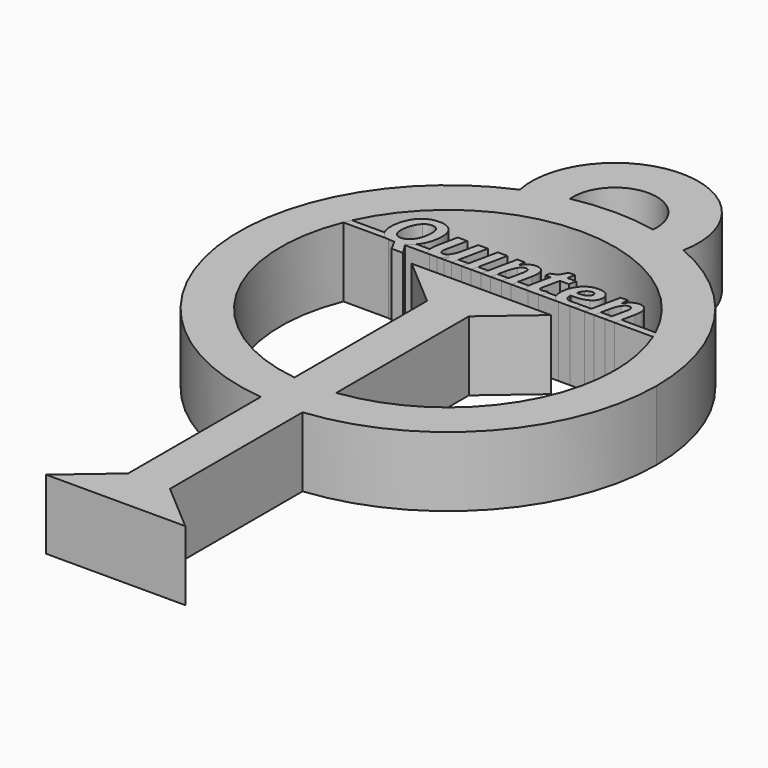
from build123d import *

# Parameters (mm, degrees)
F1_DEPTH = 5
F2_DEPTH = 5


with BuildPart() as f1:
    # F0 (on Top) → F1 (new body)
    with BuildSketch(Plane.XY):
        with BuildLine():
            ThreePointArc((1.5, -14.9248115566), (11.1242977306, -10.0623058987), (15, 0))
            ThreePointArc((15, 0), (12.513625189, 8.2709845019), (5.8787753827, 13.8))
            ThreePointArc((5.8787753827, 13.8), (4.454656157, 14.3232691283), (2.9849623113, 14.7))
            ThreePointArc((2.9849623113, 14.7), (0, 15), (-2.9849623113, 14.7))
            ThreePointArc((-2.9849623113, 14.7), (-4.454656157, 14.3232691283), (-5.8787753827, 13.8))
            ThreePointArc((-5.8787753827, 13.8), (-14.8286978956, -2.2604686953), (-1.5, -14.9248115566))
            ThreePointArc((-1.5, -14.9248115566), (0, -15), (1.5, -14.9248115566))
        make_face()
        with BuildLine():
            ThreePointArc((1.5, -11.9058808998), (0, -12), (-1.5, -11.9058808998))
            ThreePointArc((-1.5, -11.9058808998), (-10.354222342, -6.065482643), (-11.1186688317, 4.5138900531))
            Line((-11.1186688317, 4.5138900531), (-11.3634495065, 4.5138900531))
            Line((-11.3634495065, 4.5138900531), (-11.3634495065, 5.0138900531))
            Line((-11.3634495065, 5.0138900531), (-10.9023349121, 5.0138900531))
            ThreePointArc((-10.9023349121, 5.0138900531), (0, 12), (10.9023349121, 5.0138900531))
            Line((10.9023349121, 5.0138900531), (11.4118158817, 5.0138900531))
            Line((11.4118158817, 5.0138900531), (11.4118158817, 4.5138900531))
            Line((11.4118158817, 4.5138900531), (11.1186688317, 4.5138900531))
            ThreePointArc((11.1186688317, 4.5138900531), (11.7776064202, 2.2995623518), (12, 0))
            ThreePointArc((12, 0), (9, -7.9372539332), (1.5, -11.9058808998))
        make_face(mode=Mode.SUBTRACT)
        with BuildLine():
            ThreePointArc((2.9849623113, 14.7), (4.454656157, 14.3232691283), (5.8787753827, 13.8))
            ThreePointArc((5.8787753827, 13.8), (0, 21), (-5.8787753827, 13.8))
            ThreePointArc((-5.8787753827, 13.8), (-4.454656157, 14.3232691283), (-2.9849623113, 14.7))
            ThreePointArc((-2.9849623113, 14.7), (0, 18), (2.9849623113, 14.7))
        make_face()
        with BuildLine():
            Line((1.5, -26.83281573), (1.5, -14.9248115566))
            ThreePointArc((1.5, -14.9248115566), (0, -15), (-1.5, -14.9248115566))
            Line((-1.5, -14.9248115566), (-1.5, -26.83281573))
            Line((-1.5, -26.83281573), (1.5, -26.83281573))
        make_face()
        Polygon((5, -29.83281573), (1.5, -26.83281573), (-1.5, -26.83281573), (-5, -29.83281573), align=None)
        with BuildLine():
            Line((-1.5, 0), (-1.5, -11.9058808998))
            ThreePointArc((-1.5, -11.9058808998), (0, -12), (1.5, -11.9058808998))
            Line((1.5, -11.9058808998), (1.5, 0))
            Line((1.5, 0), (5, 3))
            Line((5, 3), (0, 3))
            Line((0, 3), (-5, 3))
            Line((-5, 3), (-1.5, 0))
        make_face()
        with BuildLine():
            ThreePointArc((10.9023349121, 5.0138900531), (11.0133397056, 4.7651178925), (11.1186688317, 4.5138900531))
            Line((11.1186688317, 4.5138900531), (11.4118158817, 4.5138900531))
            Line((11.4118158817, 4.5138900531), (11.4118158817, 5.0138900531))
            Line((11.4118158817, 5.0138900531), (10.9023349121, 5.0138900531))
        make_face()
        with BuildLine():
            Line((-11.3634495065, 4.5138900531), (-11.1186688317, 4.5138900531))
            ThreePointArc((-11.1186688317, 4.5138900531), (-11.0133397056, 4.7651178925), (-10.9023349121, 5.0138900531))
            Line((-10.9023349121, 5.0138900531), (-11.3634495065, 5.0138900531))
            Line((-11.3634495065, 5.0138900531), (-11.3634495065, 4.5138900531))
        make_face()
    extrude(amount=F1_DEPTH)


with BuildPart() as f1b:
    # F0 (on Top) → F1, piece 2 (new body)
    with BuildSketch(Plane.XY):
        with BuildLine():
            add(Edge.make_bspline(
                [(-8.562856479, 5.0138900531), (-8.7372178819, 5.3133548176), (-8.7372178819, 5.751997692)],
                knots=[0.2741268531, 0.2741268531, 0.2741268531, 1, 1, 1], degree=2))
            Line((-8.562856479, 5.0138900531), (-6.2538529569, 5.0138900531))
            add(Edge.make_bspline(
                [(-6.0012803819, 5.3959864073), (-6.1118183796, 5.1799611038), (-6.2538529569, 5.0138900531)],
                knots=[0, 0, 0, 0.3911527362, 0.3911527362, 0.3911527362], degree=2))
            add(Edge.make_bspline(
                [(-5.7186848958, 6.6765202614), (-5.7186848958, 5.9482650531), (-6.0012803819, 5.3959864073)],
                knots=[0, 0, 0, 1, 1, 1], degree=2))
            add(Edge.make_bspline(
                [(-6.0414930556, 7.6062077614), (-5.7186848958, 7.2741765114), (-5.7186848958, 6.6765202614)],
                knots=[0, 0, 0, 1, 1, 1], degree=2))
            add(Edge.make_bspline(
                [(-6.9523654514, 7.9382390114), (-6.3643012153, 7.9382390114), (-6.0414930556, 7.6062077614)],
                knots=[0, 0, 0, 1, 1, 1], degree=2))
            add(Edge.make_bspline(
                [(-7.8791015625, 7.6637598448), (-7.4777126736, 7.9382390114), (-6.9523654514, 7.9382390114)],
                knots=[0, 0, 0, 1, 1, 1], degree=2))
            add(Edge.make_bspline(
                [(-8.5088541667, 6.876107935), (-8.2804904514, 7.3892806781), (-7.8791015625, 7.6637598448)],
                knots=[0, 0, 0, 1, 1, 1], degree=2))
            add(Edge.make_bspline(
                [(-8.7372178819, 5.751997692), (-8.7372178819, 6.362935192), (-8.5088541667, 6.876107935)],
                knots=[0, 0, 0, 1, 1, 1], degree=2))
        make_face()
        with BuildLine():
            add(Edge.make_bspline(
                [(-7.0099175347, 7.3427963031), (-7.2888237847, 7.3427963031), (-7.5216145833, 7.1321409212)],
                knots=[0, 0, 0, 1, 1, 1], degree=2))
            add(Edge.make_bspline(
                [(-6.5878689236, 7.1642372753), (-6.7376519097, 7.3427963031), (-7.0099175347, 7.3427963031)],
                knots=[0, 0, 0, 1, 1, 1], degree=2))
            add(Edge.make_bspline(
                [(-6.4380859375, 6.6580740809), (-6.4380859375, 6.9856782475), (-6.5878689236, 7.1642372753)],
                knots=[0, 0, 0, 1, 1, 1], degree=2))
            add(Edge.make_bspline(
                [(-6.5672092014, 5.8353744281), (-6.4380859375, 6.2020844975), (-6.4380859375, 6.6580740809)],
                knots=[0, 0, 0, 1, 1, 1], degree=2))
            add(Edge.make_bspline(
                [(-6.9258029514, 5.2679699142), (-6.6963324653, 5.4686643587), (-6.5672092014, 5.8353744281)],
                knots=[0, 0, 0, 1, 1, 1], degree=2))
            add(Edge.make_bspline(
                [(-7.4341796875, 5.0672754698), (-7.1552734375, 5.0672754698), (-6.9258029514, 5.2679699142)],
                knots=[0, 0, 0, 1, 1, 1], degree=2))
            add(Edge.make_bspline(
                [(-7.8665581597, 5.2403006434), (-7.7130859375, 5.0672754698), (-7.4341796875, 5.0672754698)],
                knots=[0, 0, 0, 1, 1, 1], degree=2))
            add(Edge.make_bspline(
                [(-8.0200303819, 5.751997692), (-8.0200303819, 5.413325817), (-7.8665581597, 5.2403006434)],
                knots=[0, 0, 0, 1, 1, 1], degree=2))
            add(Edge.make_bspline(
                [(-7.8872178819, 6.5525619281), (-8.0200303819, 6.183638317), (-8.0200303819, 5.751997692)],
                knots=[0, 0, 0, 1, 1, 1], degree=2))
            add(Edge.make_bspline(
                [(-7.5216145833, 7.1321409212), (-7.7544053819, 6.9214855392), (-7.8872178819, 6.5525619281)],
                knots=[0, 0, 0, 1, 1, 1], degree=2))
        make_face(mode=Mode.SUBTRACT)
        with BuildLine():
            add(Edge.make_bspline(
                [(-7.8860696745, 4.5138900531), (-8.1977033545, 4.5931496528), (-8.4062934028, 4.8075532475)],
                knots=[0.3696747706, 0.3696747706, 0.3696747706, 1, 1, 1], degree=2))
            Line((-7.8860696745, 4.5138900531), (-6.7051175901, 4.5138900531))
            Line((-6.7051175901, 4.5138900531), (-6.7723307292, 4.6179265114))
            add(Edge.make_bspline(
                [(-6.2538529569, 5.0138900531), (-6.4749363235, 4.7553928077), (-6.7723307292, 4.6179265114)],
                knots=[0.3911527362, 0.3911527362, 0.3911527362, 1, 1, 1], degree=2))
            Line((-6.2538529569, 5.0138900531), (-8.562856479, 5.0138900531))
            add(Edge.make_bspline(
                [(-8.4062934028, 4.8075532475), (-8.4970086889, 4.9007968303), (-8.562856479, 5.0138900531)],
                knots=[0, 0, 0, 0.2741268531, 0.2741268531, 0.2741268531], degree=2))
        make_face()
        with BuildLine():
            Line((-6.7051175901, 4.5138900531), (-7.8860696745, 4.5138900531))
            add(Edge.make_bspline(
                [(-7.4850911458, 4.4674056781), (-7.7033019479, 4.4674056781), (-7.8860696745, 4.5138900531)],
                knots=[0, 0, 0, 0.3696747706, 0.3696747706, 0.3696747706], degree=2))
            Line((-7.4850911458, 4.4674056781), (-7.4245876736, 4.4674056781))
            Line((-7.4245876736, 4.4674056781), (-7.0143446181, 3.7111122753))
            Line((-7.0143446181, 3.7111122753), (-6.1864800347, 3.7111122753))
            Line((-6.1864800347, 3.7111122753), (-6.7051175901, 4.5138900531))
        make_face()
    extrude(amount=F1_DEPTH)


with BuildPart() as f1c:
    # F0 (on Top) → F1, piece 3 (new body)
    with BuildSketch(Plane.XY):
        with BuildLine():
            add(Edge.make_bspline(
                [(-5.3031877435, 5.0138900531), (-5.3172960069, 5.1039311611), (-5.3172960069, 5.2082042892)],
                knots=[0.7104082845, 0.7104082845, 0.7104082845, 1, 1, 1], degree=2))
            Line((-5.3031877435, 5.0138900531), (-3.2420859494, 5.0138900531))
            Line((-3.2420859494, 5.0138900531), (-2.8019748264, 7.0919282475))
            Line((-2.8019748264, 7.0919282475), (-3.4955512153, 7.0919282475))
            Line((-3.4955512153, 7.0919282475), (-3.7220703125, 6.024263317))
            add(Edge.make_bspline(
                [(-3.9939670139, 5.2908431781), (-3.8209418403, 5.5535167892), (-3.7220703125, 6.024263317)],
                knots=[0, 0, 0, 1, 1, 1], degree=2))
            add(Edge.make_bspline(
                [(-4.3787543403, 5.028169567), (-4.1669921875, 5.028169567), (-3.9939670139, 5.2908431781)],
                knots=[0, 0, 0, 1, 1, 1], degree=2))
            add(Edge.make_bspline(
                [(-4.6281467014, 5.3115029003), (-4.6281467014, 5.028169567), (-4.3787543403, 5.028169567)],
                knots=[0, 0, 0, 1, 1, 1], degree=2))
            add(Edge.make_bspline(
                [(-4.5912543403, 5.585982067), (-4.6281467014, 5.4295584559), (-4.6281467014, 5.3115029003)],
                knots=[0, 0, 0, 1, 1, 1], degree=2))
            Line((-4.5912543403, 5.585982067), (-4.2754557292, 7.0919282475))
            Line((-4.2754557292, 7.0919282475), (-4.9690321181, 7.0919282475))
            Line((-4.9690321181, 7.0919282475), (-5.2619574653, 5.698872692))
            add(Edge.make_bspline(
                [(-5.3172960069, 5.2082042892), (-5.3172960069, 5.4221799837), (-5.2619574653, 5.698872692)],
                knots=[0, 0, 0, 1, 1, 1], degree=2))
        make_face()
        with BuildLine():
            add(Edge.make_bspline(
                [(-4.9405431901, 4.5138900531), (-5.0639684268, 4.5614746883), (-5.1490668403, 4.6577702614)],
                knots=[0.4941518456, 0.4941518456, 0.4941518456, 1, 1, 1], degree=2))
            Line((-4.9405431901, 4.5138900531), (-4.3873777888, 4.5138900531))
            add(Edge.make_bspline(
                [(-3.8438151042, 4.9912772059), (-4.0784951134, 4.6234564408), (-4.3873777888, 4.5138900531)],
                knots=[0, 0, 0, 0.7021201679, 0.7021201679, 0.7021201679], degree=2))
            Line((-3.8438151042, 4.9912772059), (-3.8297960069, 4.9912772059))
            Line((-3.8297960069, 4.9912772059), (-3.8784939236, 4.5138900531))
            Line((-3.8784939236, 4.5138900531), (-3.3479817708, 4.5138900531))
            Line((-3.3479817708, 4.5138900531), (-3.2420859494, 5.0138900531))
            Line((-3.2420859494, 5.0138900531), (-5.3031877435, 5.0138900531))
            add(Edge.make_bspline(
                [(-5.1490668403, 4.6577702614), (-5.268578234, 4.7930068385), (-5.3031877435, 5.0138900531)],
                knots=[0, 0, 0, 0.7104082845, 0.7104082845, 0.7104082845], degree=2))
        make_face()
    extrude(amount=F1_DEPTH)


with BuildPart() as f1d:
    # F0 (on Top) → F1, piece 4 (new body)
    with BuildSketch(Plane.XY):
        Polygon((-2.0892144097, 7.0919282475), (-2.5293255328, 5.0138900531), (-1.8356060414, 5.0138900531), (-1.3949001736, 7.0919282475), align=None)
        Polygon((-1.8356060414, 5.0138900531), (-2.5293255328, 5.0138900531), (-2.6352213542, 4.5138900531), (-1.9416449653, 4.5138900531), align=None)
    extrude(amount=F1_DEPTH)


with BuildPart() as f1e:
    # F0 (on Top) → F1, piece 5 (new body)
    with BuildSketch(Plane.XY):
        with BuildLine():
            Line((-0.6873046875, 7.0919282475), (-1.1274158105, 5.0138900531))
            Line((-1.1274158105, 5.0138900531), (-0.433653695, 5.0138900531))
            Line((-0.433653695, 5.0138900531), (-0.3132161458, 5.5815549837))
            add(Edge.make_bspline(
                [(-0.0413194444, 6.3146061989), (-0.2143446181, 6.0515636642), (-0.3132161458, 5.5815549837)],
                knots=[0, 0, 0, 1, 1, 1], degree=2))
            add(Edge.make_bspline(
                [(0.3434678819, 6.5776487337), (0.1317057292, 6.5776487337), (-0.0413194444, 6.3146061989)],
                knots=[0, 0, 0, 1, 1, 1], degree=2))
            add(Edge.make_bspline(
                [(0.5928602431, 6.2943154003), (0.5928602431, 6.5776487337), (0.3434678819, 6.5776487337)],
                knots=[0, 0, 0, 1, 1, 1], degree=2))
            add(Edge.make_bspline(
                [(0.5559678819, 6.0198362337), (0.5928602431, 6.1762598448), (0.5928602431, 6.2943154003)],
                knots=[0, 0, 0, 1, 1, 1], degree=2))
            Line((0.5559678819, 6.0198362337), (0.3450198343, 5.0138900531))
            Line((0.3450198343, 5.0138900531), (1.0382157752, 5.0138900531))
            Line((1.0382157752, 5.0138900531), (1.2406901042, 5.9829438725))
            add(Edge.make_bspline(
                [(1.2938151042, 6.3976140114), (1.2938151042, 6.2293848448), (1.2406901042, 5.9829438725)],
                knots=[0, 0, 0, 1, 1, 1], degree=2))
            add(Edge.make_bspline(
                [(1.1196831597, 6.9476791156), (1.2938151042, 6.7554699142), (1.2938151042, 6.3976140114)],
                knots=[0, 0, 0, 1, 1, 1], degree=2))
            add(Edge.make_bspline(
                [(0.6275390625, 7.139888317), (0.9455512153, 7.139888317), (1.1196831597, 6.9476791156)],
                knots=[0, 0, 0, 1, 1, 1], degree=2))
            add(Edge.make_bspline(
                [(-0.1914713542, 6.6145410948), (0.1449869792, 7.139888317), (0.6275390625, 7.139888317)],
                knots=[0, 0, 0, 1, 1, 1], degree=2))
            Line((-0.1914713542, 6.6145410948), (-0.2054904514, 6.6145410948))
            Line((-0.2054904514, 6.6145410948), (-0.1567925347, 7.0919282475))
            Line((-0.1567925347, 7.0919282475), (-0.6873046875, 7.0919282475))
        make_face()
        Polygon((-0.433653695, 5.0138900531), (-1.1274158105, 5.0138900531), (-1.2333116319, 4.5138900531), (-0.5397352431, 4.5138900531), align=None)
        Polygon((1.0382157752, 5.0138900531), (0.3450198343, 5.0138900531), (0.2401692708, 4.5138900531), (0.9337456597, 4.5138900531), align=None)
    extrude(amount=F1_DEPTH)


with BuildPart() as f1f:
    # F0 (on Top) → F1, piece 6 (new body)
    with BuildSketch(Plane.XY):
        with BuildLine():
            Line((1.8091910575, 5.0138900531), (3.0926866319, 5.0138900531))
            Line((3.0926866319, 5.0138900531), (3.0926866319, 5.1085949142))
            add(Edge.make_bspline(
                [(2.7185980903, 5.028169567), (2.8683810764, 5.028169567), (3.0926866319, 5.1085949142)],
                knots=[0, 0, 0, 1, 1, 1], degree=2))
            add(Edge.make_bspline(
                [(2.5156901042, 5.1986122753), (2.5156901042, 5.028169567), (2.7185980903, 5.028169567)],
                knots=[0, 0, 0, 1, 1, 1], degree=2))
            add(Edge.make_bspline(
                [(2.5297092014, 5.3210949142), (2.5156901042, 5.2517372753), (2.5156901042, 5.1986122753)],
                knots=[0, 0, 0, 1, 1, 1], degree=2))
            Line((2.5297092014, 5.3210949142), (2.7945963542, 6.5636296364))
            Line((2.7945963542, 6.5636296364), (3.4453776042, 6.5636296364))
            Line((3.4453776042, 6.5636296364), (3.5604817708, 7.0919282475))
            Line((3.5604817708, 7.0919282475), (2.9082248264, 7.0919282475))
            Line((2.9082248264, 7.0919282475), (3.0211154514, 7.6408865809))
            Line((3.0211154514, 7.6408865809), (2.5732421875, 7.6408865809))
            Line((2.5732421875, 7.6408865809), (2.2692491319, 7.0963553309))
            Line((2.2692491319, 7.0963553309), (1.8169487847, 6.9030393587))
            Line((1.8169487847, 6.9030393587), (1.7505425347, 6.5636296364))
            Line((1.7505425347, 6.5636296364), (2.1010199653, 6.5636296364))
            Line((2.1010199653, 6.5636296364), (1.8353949653, 5.3210949142))
            add(Edge.make_bspline(
                [(1.8080946181, 5.0628483864), (1.8080946181, 5.1779525531), (1.8353949653, 5.3210949142)],
                knots=[0, 0, 0, 1, 1, 1], degree=2))
            add(Edge.make_bspline(
                [(1.8091910575, 5.0138900531), (1.8080946181, 5.0378321882), (1.8080946181, 5.0628483864)],
                knots=[0.9179072486, 0.9179072486, 0.9179072486, 1, 1, 1], degree=2))
        make_face()
        with BuildLine():
            Line((2.1466456321, 4.5138900531), (2.8810686367, 4.5138900531))
            add(Edge.make_bspline(
                [(3.0926866319, 4.589888317), (2.9943828646, 4.5428611545), (2.8810686367, 4.5138900531)],
                knots=[0, 0, 0, 0.3839496187, 0.3839496187, 0.3839496187], degree=2))
            Line((3.0926866319, 4.589888317), (3.0926866319, 5.0138900531))
            Line((3.0926866319, 5.0138900531), (1.8091910575, 5.0138900531))
            add(Edge.make_bspline(
                [(1.9707899306, 4.6127615809), (1.8214507239, 4.7461848177), (1.8091910575, 5.0138900531)],
                knots=[0, 0, 0, 0.9179072486, 0.9179072486, 0.9179072486], degree=2))
            add(Edge.make_bspline(
                [(2.1466456321, 4.5138900531), (2.0414800794, 4.5496053028), (1.9707899306, 4.6127615809)],
                knots=[0.5655059277, 0.5655059277, 0.5655059277, 1, 1, 1], degree=2))
        make_face()
    extrude(amount=F1_DEPTH)


with BuildPart() as f1g:
    # F0 (on Top) → F1, piece 7 (new body)
    with BuildSketch(Plane.XY):
        with BuildLine():
            Line((3.7556581208, 5.0138900531), (4.6632703475, 5.0138900531))
            add(Edge.make_bspline(
                [(4.4953342014, 5.1122841503), (4.5627747248, 5.0435869712), (4.6632703475, 5.0138900531)],
                knots=[0, 0, 0, 0.5677126998, 0.5677126998, 0.5677126998], degree=2))
            add(Edge.make_bspline(
                [(4.3765407986, 5.4428397059), (4.3765407986, 5.2332910948), (4.4953342014, 5.1122841503)],
                knots=[0, 0, 0, 1, 1, 1], degree=2))
            Line((4.3765407986, 5.4428397059), (4.3765407986, 5.4893240809))
            Line((4.3765407986, 5.4893240809), (4.3809678819, 5.5380219975))
            Line((4.3809678819, 5.5380219975), (4.4990234375, 5.5380219975))
            add(Edge.make_bspline(
                [(5.5987847222, 5.771919567), (5.2139973958, 5.5380219975), (4.4990234375, 5.5380219975)],
                knots=[0, 0, 0, 1, 1, 1], degree=2))
            add(Edge.make_bspline(
                [(5.9835720486, 6.4367199142), (5.9835720486, 6.0058171364), (5.5987847222, 5.771919567)],
                knots=[0, 0, 0, 1, 1, 1], degree=2))
            add(Edge.make_bspline(
                [(5.7555772569, 6.9521061989), (5.9835720486, 6.7643240809), (5.9835720486, 6.4367199142)],
                knots=[0, 0, 0, 1, 1, 1], degree=2))
            add(Edge.make_bspline(
                [(5.1188151042, 7.139888317), (5.5275824653, 7.139888317), (5.7555772569, 6.9521061989)],
                knots=[0, 0, 0, 1, 1, 1], degree=2))
            add(Edge.make_bspline(
                [(4.3835503472, 6.9336600184), (4.7085720486, 7.139888317), (5.1188151042, 7.139888317)],
                knots=[0, 0, 0, 1, 1, 1], degree=2))
            add(Edge.make_bspline(
                [(3.8681640625, 6.3341591503), (4.0585286458, 6.7274317198), (4.3835503472, 6.9336600184)],
                knots=[0, 0, 0, 1, 1, 1], degree=2))
            add(Edge.make_bspline(
                [(3.6777994792, 5.4642372753), (3.6777994792, 5.9408865809), (3.8681640625, 6.3341591503)],
                knots=[0, 0, 0, 1, 1, 1], degree=2))
            add(Edge.make_bspline(
                [(3.7556581208, 5.0138900531), (3.6777994792, 5.2078665119), (3.6777994792, 5.4642372753)],
                knots=[0.460469274, 0.460469274, 0.460469274, 1, 1, 1], degree=2))
        make_face()
        with BuildLine():
            add(Edge.make_bspline(
                [(5.0752821181, 6.6396279003), (4.8723741319, 6.6396279003), (4.6927083333, 6.4551660948)],
                knots=[0, 0, 0, 1, 1, 1], degree=2))
            add(Edge.make_bspline(
                [(5.3172960069, 6.4204872753), (5.3172960069, 6.6396279003), (5.0752821181, 6.6396279003)],
                knots=[0, 0, 0, 1, 1, 1], degree=2))
            add(Edge.make_bspline(
                [(5.1180772569, 6.1176009906), (5.3172960069, 6.2293848448), (5.3172960069, 6.4204872753)],
                knots=[0, 0, 0, 1, 1, 1], degree=2))
            add(Edge.make_bspline(
                [(4.5610026042, 6.0058171364), (4.9188585069, 6.0058171364), (5.1180772569, 6.1176009906)],
                knots=[0, 0, 0, 1, 1, 1], degree=2))
            Line((4.5610026042, 6.0058171364), (4.4577039931, 6.0058171364))
            add(Edge.make_bspline(
                [(4.6927083333, 6.4551660948), (4.5130425347, 6.2707042892), (4.4577039931, 6.0058171364)],
                knots=[0, 0, 0, 1, 1, 1], degree=2))
        make_face(mode=Mode.SUBTRACT)
        with BuildLine():
            Line((4.3269344771, 4.5138900531), (5.158957934, 4.5138900531))
            add(Edge.make_bspline(
                [(5.5962022569, 4.6658865809), (5.3917280754, 4.5634591045), (5.158957934, 4.5138900531)],
                knots=[0, 0, 0, 0.5160570865, 0.5160570865, 0.5160570865], degree=2))
            Line((5.5962022569, 4.6658865809), (5.5962022569, 5.0138900531))
            Line((5.5962022569, 5.0138900531), (5.1045515219, 5.0138900531))
            add(Edge.make_bspline(
                [(4.8354817708, 4.9912772059), (4.9795178427, 4.9912772059), (5.1045515219, 5.0138900531)],
                knots=[0, 0, 0, 0.7176883856, 0.7176883856, 0.7176883856], degree=2))
            add(Edge.make_bspline(
                [(4.6632703475, 5.0138900531), (4.7397931757, 4.9912772059), (4.8354817708, 4.9912772059)],
                knots=[0.5677126998, 0.5677126998, 0.5677126998, 1, 1, 1], degree=2))
            Line((4.6632703475, 5.0138900531), (3.7556581208, 5.0138900531))
            add(Edge.make_bspline(
                [(3.9452690972, 4.7282346712), (3.8221075564, 4.8483384082), (3.7556581208, 5.0138900531)],
                knots=[0, 0, 0, 0.460469274, 0.460469274, 0.460469274], degree=2))
            add(Edge.make_bspline(
                [(4.3269344771, 4.5138900531), (4.0998241353, 4.5775168616), (3.9452690972, 4.7282346712)],
                knots=[0.4221585268, 0.4221585268, 0.4221585268, 1, 1, 1], degree=2))
        make_face()
    extrude(amount=F1_DEPTH)


with BuildPart() as f1h:
    # F0 (on Top) → F1, piece 8 (new body)
    with BuildSketch(Plane.XY):
        with BuildLine():
            Line((7.7655493482, 5.0138900531), (8.4587452891, 5.0138900531))
            Line((8.4587452891, 5.0138900531), (8.6612196181, 5.9829438725))
            add(Edge.make_bspline(
                [(8.7143446181, 6.3976140114), (8.7143446181, 6.2293848448), (8.6612196181, 5.9829438725)],
                knots=[0, 0, 0, 1, 1, 1], degree=2))
            add(Edge.make_bspline(
                [(8.5402126736, 6.9476791156), (8.7143446181, 6.7554699142), (8.7143446181, 6.3976140114)],
                knots=[0, 0, 0, 1, 1, 1], degree=2))
            add(Edge.make_bspline(
                [(8.0480685764, 7.139888317), (8.3660807292, 7.139888317), (8.5402126736, 6.9476791156)],
                knots=[0, 0, 0, 1, 1, 1], degree=2))
            add(Edge.make_bspline(
                [(7.2290581597, 6.6145410948), (7.5655164931, 7.139888317), (8.0480685764, 7.139888317)],
                knots=[0, 0, 0, 1, 1, 1], degree=2))
            Line((7.2290581597, 6.6145410948), (7.2150390625, 6.6145410948))
            Line((7.2150390625, 6.6145410948), (7.2637369792, 7.0919282475))
            Line((7.2637369792, 7.0919282475), (6.7332248264, 7.0919282475))
            Line((6.7332248264, 7.0919282475), (6.2931137034, 5.0138900531))
            Line((6.2931137034, 5.0138900531), (6.9868758189, 5.0138900531))
            Line((6.9868758189, 5.0138900531), (7.1073133681, 5.5815549837))
            add(Edge.make_bspline(
                [(7.3792100694, 6.3146061989), (7.2061848958, 6.0515636642), (7.1073133681, 5.5815549837)],
                knots=[0, 0, 0, 1, 1, 1], degree=2))
            add(Edge.make_bspline(
                [(7.7639973958, 6.5776487337), (7.5522352431, 6.5776487337), (7.3792100694, 6.3146061989)],
                knots=[0, 0, 0, 1, 1, 1], degree=2))
            add(Edge.make_bspline(
                [(8.0133897569, 6.2943154003), (8.0133897569, 6.5776487337), (7.7639973958, 6.5776487337)],
                knots=[0, 0, 0, 1, 1, 1], degree=2))
            add(Edge.make_bspline(
                [(7.9764973958, 6.0198362337), (8.0133897569, 6.1762598448), (8.0133897569, 6.2943154003)],
                knots=[0, 0, 0, 1, 1, 1], degree=2))
            Line((7.9764973958, 6.0198362337), (7.7655493482, 5.0138900531))
        make_face()
        Polygon((7.6606987847, 4.5138900531), (8.3542751736, 4.5138900531), (8.4587452891, 5.0138900531), (7.7655493482, 5.0138900531), align=None)
        Polygon((6.1872178819, 4.5138900531), (6.8807942708, 4.5138900531), (6.9868758189, 5.0138900531), (6.2931137034, 5.0138900531), align=None)
    extrude(amount=F1_DEPTH)


with BuildPart() as f2:
    # F0 (on Top) → F2 (new body)
    with BuildSketch(Plane.XY):
        Polygon((-1.1274158105, 5.0138900531), (-1.8356060414, 5.0138900531), (-1.9416449653, 4.5138900531), (-1.2333116319, 4.5138900531), align=None)
    extrude(amount=F2_DEPTH)


with BuildPart() as f2b:
    # F0 (on Top) → F2, piece 2 (new body)
    with BuildSketch(Plane.XY):
        Polygon((0.3450198343, 5.0138900531), (-0.433653695, 5.0138900531), (-0.5397352431, 4.5138900531), (0.2401692708, 4.5138900531), align=None)
    extrude(amount=F2_DEPTH)


with BuildPart() as f2c:
    # F0 (on Top) → F2, piece 3 (new body)
    with BuildSketch(Plane.XY):
        with BuildLine():
            Line((0.9337456597, 4.5138900531), (2.1466456321, 4.5138900531))
            add(Edge.make_bspline(
                [(2.1466456321, 4.5138900531), (2.0414800794, 4.5496053028), (1.9707899306, 4.6127615809)],
                knots=[0.5655059277, 0.5655059277, 0.5655059277, 1, 1, 1], degree=2))
            add(Edge.make_bspline(
                [(1.9707899306, 4.6127615809), (1.8214507239, 4.7461848177), (1.8091910575, 5.0138900531)],
                knots=[0, 0, 0, 0.9179072486, 0.9179072486, 0.9179072486], degree=2))
            Line((1.8091910575, 5.0138900531), (1.0382157752, 5.0138900531))
            Line((1.0382157752, 5.0138900531), (0.9337456597, 4.5138900531))
        make_face()
    extrude(amount=F2_DEPTH)


with BuildPart() as f2d:
    # F0 (on Top) → F2, piece 4 (new body)
    with BuildSketch(Plane.XY):
        with BuildLine():
            Line((2.8810686367, 4.5138900531), (4.3269344771, 4.5138900531))
            add(Edge.make_bspline(
                [(4.3269344771, 4.5138900531), (4.0998241353, 4.5775168616), (3.9452690972, 4.7282346712)],
                knots=[0.4221585268, 0.4221585268, 0.4221585268, 1, 1, 1], degree=2))
            add(Edge.make_bspline(
                [(3.9452690972, 4.7282346712), (3.8221075564, 4.8483384082), (3.7556581208, 5.0138900531)],
                knots=[0, 0, 0, 0.460469274, 0.460469274, 0.460469274], degree=2))
            Line((3.7556581208, 5.0138900531), (3.0926866319, 5.0138900531))
            Line((3.0926866319, 5.0138900531), (3.0926866319, 4.589888317))
            add(Edge.make_bspline(
                [(3.0926866319, 4.589888317), (2.9943828646, 4.5428611545), (2.8810686367, 4.5138900531)],
                knots=[0, 0, 0, 0.3839496187, 0.3839496187, 0.3839496187], degree=2))
        make_face()
    extrude(amount=F2_DEPTH)


with BuildPart() as f2e:
    # F0 (on Top) → F2, piece 5 (new body)
    with BuildSketch(Plane.XY):
        with BuildLine():
            Line((5.158957934, 4.5138900531), (6.1872178819, 4.5138900531))
            Line((6.1872178819, 4.5138900531), (6.2931137034, 5.0138900531))
            Line((6.2931137034, 5.0138900531), (5.5962022569, 5.0138900531))
            Line((5.5962022569, 5.0138900531), (5.5962022569, 4.6658865809))
            add(Edge.make_bspline(
                [(5.5962022569, 4.6658865809), (5.3917280754, 4.5634591045), (5.158957934, 4.5138900531)],
                knots=[0, 0, 0, 0.5160570865, 0.5160570865, 0.5160570865], degree=2))
        make_face()
    extrude(amount=F2_DEPTH)


with BuildPart() as f2f:
    # F0 (on Top) → F2, piece 6 (new body)
    with BuildSketch(Plane.XY):
        Polygon((6.8807942708, 4.5138900531), (7.6606987847, 4.5138900531), (7.7655493482, 5.0138900531), (6.9868758189, 5.0138900531), align=None)
    extrude(amount=F2_DEPTH)


with BuildPart() as f2g:
    # F0 (on Top) → F2, piece 7 (new body)
    with BuildSketch(Plane.XY):
        Polygon((8.3542751736, 4.5138900531), (9.0205512153, 4.5138900531), (9.0205512153, 5.0138900531), (8.4587452891, 5.0138900531), align=None)
        with BuildLine():
            Line((9.0205512153, 4.5138900531), (11.1186688317, 4.5138900531))
            ThreePointArc((11.1186688317, 4.5138900531), (11.0133397056, 4.7651178925), (10.9023349121, 5.0138900531))
            Line((10.9023349121, 5.0138900531), (9.0205512153, 5.0138900531))
            Line((9.0205512153, 5.0138900531), (9.0205512153, 4.5138900531))
        make_face()
    extrude(amount=F2_DEPTH)


with BuildPart() as f2h:
    # F0 (on Top) → F2, piece 8 (new body)
    with BuildSketch(Plane.XY):
        with BuildLine():
            ThreePointArc((-10.9023349121, 5.0138900531), (-11.0133397056, 4.7651178925), (-11.1186688317, 4.5138900531))
            Line((-11.1186688317, 4.5138900531), (-9.0205512153, 4.5138900531))
            Line((-9.0205512153, 4.5138900531), (-9.0205512153, 5.0138900531))
            Line((-9.0205512153, 5.0138900531), (-10.9023349121, 5.0138900531))
        make_face()
        with BuildLine():
            Line((-9.0205512153, 5.0138900531), (-9.0205512153, 4.5138900531))
            Line((-9.0205512153, 4.5138900531), (-7.8860696745, 4.5138900531))
            add(Edge.make_bspline(
                [(-7.8860696745, 4.5138900531), (-8.1977033545, 4.5931496528), (-8.4062934028, 4.8075532475)],
                knots=[0.3696747706, 0.3696747706, 0.3696747706, 1, 1, 1], degree=2))
            add(Edge.make_bspline(
                [(-8.4062934028, 4.8075532475), (-8.4970086889, 4.9007968303), (-8.562856479, 5.0138900531)],
                knots=[0, 0, 0, 0.2741268531, 0.2741268531, 0.2741268531], degree=2))
            Line((-8.562856479, 5.0138900531), (-9.0205512153, 5.0138900531))
        make_face()
    extrude(amount=F2_DEPTH)


with BuildPart() as f2i:
    # F0 (on Top) → F2, piece 9 (new body)
    with BuildSketch(Plane.XY):
        with BuildLine():
            Line((-6.7723307292, 4.6179265114), (-6.7051175901, 4.5138900531))
            Line((-6.7051175901, 4.5138900531), (-4.9405431901, 4.5138900531))
            add(Edge.make_bspline(
                [(-4.9405431901, 4.5138900531), (-5.0639684268, 4.5614746883), (-5.1490668403, 4.6577702614)],
                knots=[0.4941518456, 0.4941518456, 0.4941518456, 1, 1, 1], degree=2))
            add(Edge.make_bspline(
                [(-5.1490668403, 4.6577702614), (-5.268578234, 4.7930068385), (-5.3031877435, 5.0138900531)],
                knots=[0, 0, 0, 0.7104082845, 0.7104082845, 0.7104082845], degree=2))
            Line((-5.3031877435, 5.0138900531), (-6.2538529569, 5.0138900531))
            add(Edge.make_bspline(
                [(-6.2538529569, 5.0138900531), (-6.4749363235, 4.7553928077), (-6.7723307292, 4.6179265114)],
                knots=[0.3911527362, 0.3911527362, 0.3911527362, 1, 1, 1], degree=2))
        make_face()
    extrude(amount=F2_DEPTH)


with BuildPart() as f2j:
    # F0 (on Top) → F2, piece 10 (new body)
    with BuildSketch(Plane.XY):
        Polygon((-2.5293255328, 5.0138900531), (-3.2420859494, 5.0138900531), (-3.3479817708, 4.5138900531), (-2.6352213542, 4.5138900531), align=None)
    extrude(amount=F2_DEPTH)


with BuildPart() as f2k:
    # F0 (on Top) → F2, piece 11 (new body)
    with BuildSketch(Plane.XY):
        with BuildLine():
            add(Edge.make_bspline(
                [(-3.8438151042, 4.9912772059), (-4.0784951134, 4.6234564408), (-4.3873777888, 4.5138900531)],
                knots=[0, 0, 0, 0.7021201679, 0.7021201679, 0.7021201679], degree=2))
            Line((-4.3873777888, 4.5138900531), (-3.8784939236, 4.5138900531))
            Line((-3.8784939236, 4.5138900531), (-3.8297960069, 4.9912772059))
            Line((-3.8297960069, 4.9912772059), (-3.8438151042, 4.9912772059))
        make_face()
    extrude(amount=F2_DEPTH)


solid = Compound([f1.part, f1b.part, f1c.part, f1d.part, f1e.part, f1f.part, f1g.part, f1h.part, f2.part, f2b.part, f2c.part, f2d.part, f2e.part, f2f.part, f2g.part, f2h.part, f2i.part, f2j.part, f2k.part])
